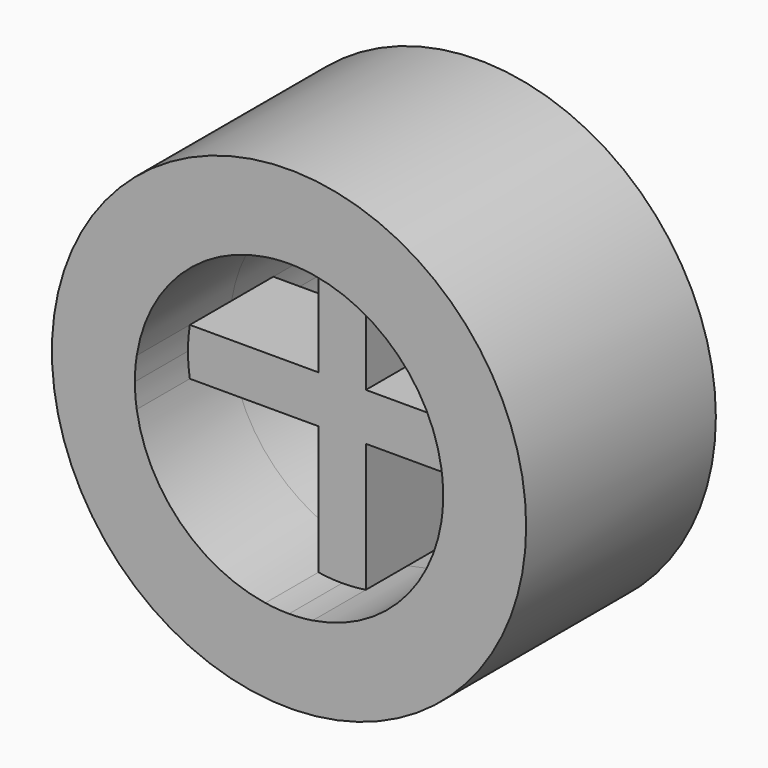
from build123d import *

# Parameters (mm, degrees)
F0_R     = 12.7
F1_DEPTH = 6.35
F0_W     = 1.27
F0_H     = 1.27
F2_DEPTH = 2.794


with BuildPart() as f1:
    # F0 (on Front) → F1 (new body, symmetric)
    with BuildSketch(Plane.XZ):
        Circle(F0_R)
        with BuildLine():
            ThreePointArc((8.1567226875, 1.27), (8.2303939998, 0.636898428), (8.255, 0))
            ThreePointArc((8.255, 0), (8.2303939998, -0.636898428), (8.1567226875, -1.27))
            ThreePointArc((8.1567226875, -1.27), (5.8371664787, -5.8371664787), (1.27, -8.1567226875))
            ThreePointArc((1.27, -8.1567226875), (0.636898428, -8.2303939998), (0, -8.255))
            ThreePointArc((0, -8.255), (-0.636898428, -8.2303939998), (-1.27, -8.1567226875))
            ThreePointArc((-1.27, -8.1567226875), (-5.8371664787, -5.8371664787), (-8.1567226875, -1.27))
            ThreePointArc((-8.1567226875, -1.27), (-8.2303939998, -0.636898428), (-8.255, 0))
            ThreePointArc((-8.255, 0), (-8.2303939998, 0.636898428), (-8.1567226875, 1.27))
            ThreePointArc((-8.1567226875, 1.27), (-5.8371664787, 5.8371664787), (-1.27, 8.1567226875))
            ThreePointArc((-1.27, 8.1567226875), (-0.636898428, 8.2303939998), (0, 8.255))
            ThreePointArc((0, 8.255), (0.636898428, 8.2303939998), (1.27, 8.1567226875))
            ThreePointArc((1.27, 8.1567226875), (5.8371664787, 5.8371664787), (8.1567226875, 1.27))
        make_face(mode=Mode.SUBTRACT)
    extrude(amount=F1_DEPTH, both=True)

    # F0 (on Front) → F2 (join, symmetric)
    with BuildSketch(Plane.XZ):
        with BuildLine():
            Line((1.27, 1.27), (1.27, 8.1567226875))
            ThreePointArc((1.27, 8.1567226875), (0.636898428, 8.2303939998), (0, 8.255))
            Line((0, 8.255), (0, 1.27))
            Line((0, 1.27), (1.27, 1.27))
        make_face()
        with BuildLine():
            Line((0, 1.27), (0, 8.255))
            ThreePointArc((0, 8.255), (-0.636898428, 8.2303939998), (-1.27, 8.1567226875))
            Line((-1.27, 8.1567226875), (-1.27, 1.27))
            Line((-1.27, 1.27), (0, 1.27))
        make_face()
        with Locations((-0.635, 0.635)):
            Rectangle(F0_W, F0_H)
        with Locations((0.635, 0.635)):
            Rectangle(F0_W, F0_H)
        with Locations((0.635, -0.635)):
            Rectangle(F0_W, F0_H)
        with Locations((-0.635, -0.635)):
            Rectangle(F0_W, F0_H)
        with BuildLine():
            ThreePointArc((-1.27, -8.1567226875), (-0.636898428, -8.2303939998), (0, -8.255))
            Line((0, -8.255), (0, -1.27))
            Line((0, -1.27), (-1.27, -1.27))
            Line((-1.27, -1.27), (-1.27, -8.1567226875))
        make_face()
        with BuildLine():
            ThreePointArc((0, -8.255), (0.636898428, -8.2303939998), (1.27, -8.1567226875))
            Line((1.27, -8.1567226875), (1.27, -1.27))
            Line((1.27, -1.27), (0, -1.27))
            Line((0, -1.27), (0, -8.255))
        make_face()
        with BuildLine():
            Line((-8.255, 0), (-1.27, 0))
            Line((-1.27, 0), (-1.27, 1.27))
            Line((-1.27, 1.27), (-8.1567226875, 1.27))
            ThreePointArc((-8.1567226875, 1.27), (-8.2303939998, 0.636898428), (-8.255, 0))
        make_face()
        with BuildLine():
            Line((-1.27, -1.27), (-1.27, 0))
            Line((-1.27, 0), (-8.255, 0))
            ThreePointArc((-8.255, 0), (-8.2303939998, -0.636898428), (-8.1567226875, -1.27))
            Line((-8.1567226875, -1.27), (-1.27, -1.27))
        make_face()
        with BuildLine():
            ThreePointArc((8.1567226875, -1.27), (8.2303939998, -0.636898428), (8.255, 0))
            Line((8.255, 0), (1.27, 0))
            Line((1.27, 0), (1.27, -1.27))
            Line((1.27, -1.27), (8.1567226875, -1.27))
        make_face()
        with BuildLine():
            Line((1.27, 0), (8.255, 0))
            ThreePointArc((8.255, 0), (8.2303939998, 0.636898428), (8.1567226875, 1.27))
            Line((8.1567226875, 1.27), (1.27, 1.27))
            Line((1.27, 1.27), (1.27, 0))
        make_face()
    extrude(amount=F2_DEPTH, both=True)


solid = f1.part
